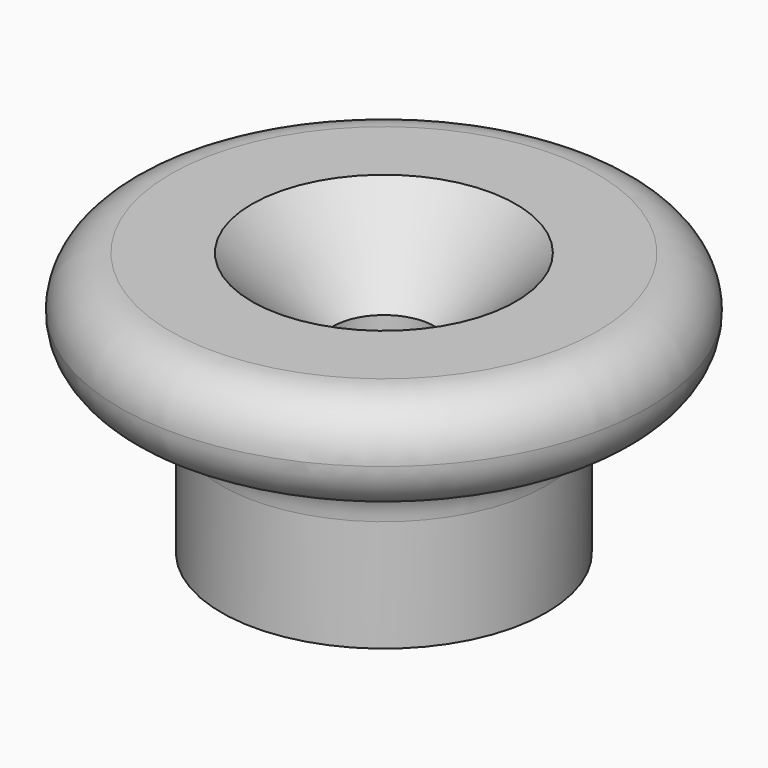
from build123d import *

# Parameters (mm, degrees)
F3_D           = 5
F3_CSINK_D     = 13
F3_CSINK_ANGLE = 90


with BuildPart() as f1:
    # F0 (on Front) → F1 (revolve)
    with BuildSketch(Plane.XZ):
        with BuildLine():
            Line((-8, 0), (0, 0))
            Line((0, 0), (0, 13))
            Line((0, 13), (-10.5, 13))
            ThreePointArc((-10.5, 13), (-12.267767, 12.267767), (-13, 10.5))
            ThreePointArc((-13, 10.5), (-12.267767, 8.732233), (-10.5, 8))
            ThreePointArc((-10.5, 8), (-8.732233, 7.267767), (-8, 5.5))
            Line((-8, 5.5), (-8, 0))
        make_face()
    revolve(axis=Axis((0, 0, 6.5), (0, 0, -1)))

    # F3 (through all)
    with Locations(Plane.XY.offset(13)):
        with Locations((0, 0)):
            CounterSinkHole(F3_D / 2, F3_CSINK_D / 2, counter_sink_angle=F3_CSINK_ANGLE)


solid = f1.part
